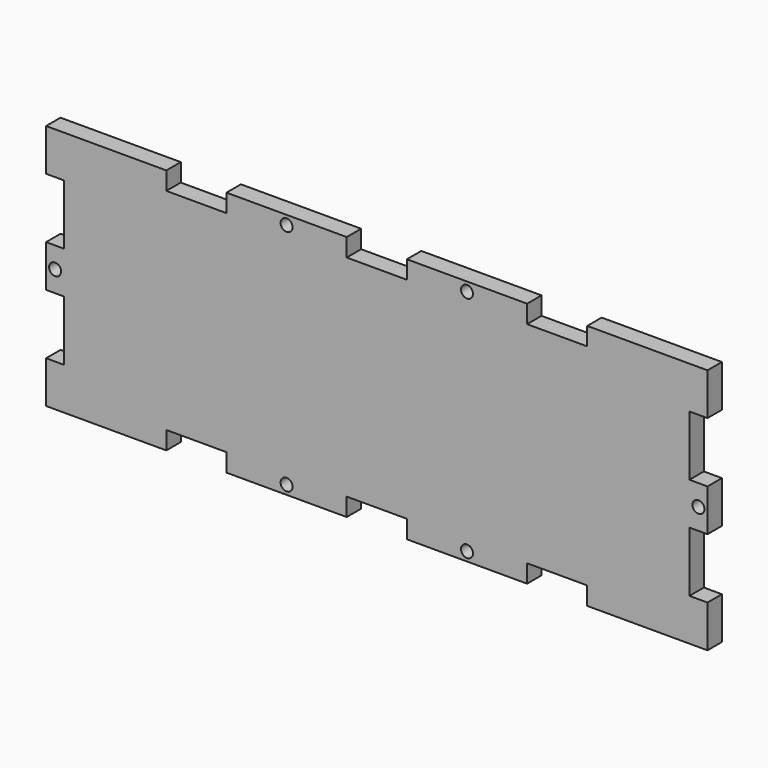
from build123d import *

# Parameters (mm, degrees)
F0_R     = 1
F1_DEPTH = 3


with BuildPart() as f1:
    # F0 (on Front) → F1 (new body)
    with BuildSketch(Plane.XZ):
        Polygon((-20, 0), (0, 0), (0, 7), (-3, 7), (-3, 17), (0, 17), (0, 24), (-3, 24), (-3, 34), (0, 34), (0, 41), (-20, 41), (-20, 38), (-30, 38), (-30, 41), (-50, 41), (-50, 38), (-55, 38), (-60, 38), (-60, 41), (-80, 41), (-80, 38), (-90, 38), (-90, 41), (-110, 41), (-110, 34), (-107, 34), (-107, 24), (-110, 24), (-110, 17), (-107, 17), (-107, 7), (-110, 7), (-110, 0), (-90, 0), (-90, 3), (-80, 3), (-80, 0), (-60, 0), (-60, 3), (-55, 3), (-50, 3), (-50, 0), (-30, 0), (-30, 3), (-20, 3), align=None)
        with Locations((-70, 1.5)):
            Circle(F0_R, mode=Mode.SUBTRACT)
        with Locations((-40, 1.5)):
            Circle(F0_R, mode=Mode.SUBTRACT)
        with Locations((-108.5, 20.5)):
            Circle(F0_R, mode=Mode.SUBTRACT)
        with Locations((-70, 39.5)):
            Circle(F0_R, mode=Mode.SUBTRACT)
        with Locations((-1.5, 20.5)):
            Circle(F0_R, mode=Mode.SUBTRACT)
        with Locations((-40, 39.5)):
            Circle(F0_R, mode=Mode.SUBTRACT)
    extrude(amount=F1_DEPTH)


solid = f1.part
